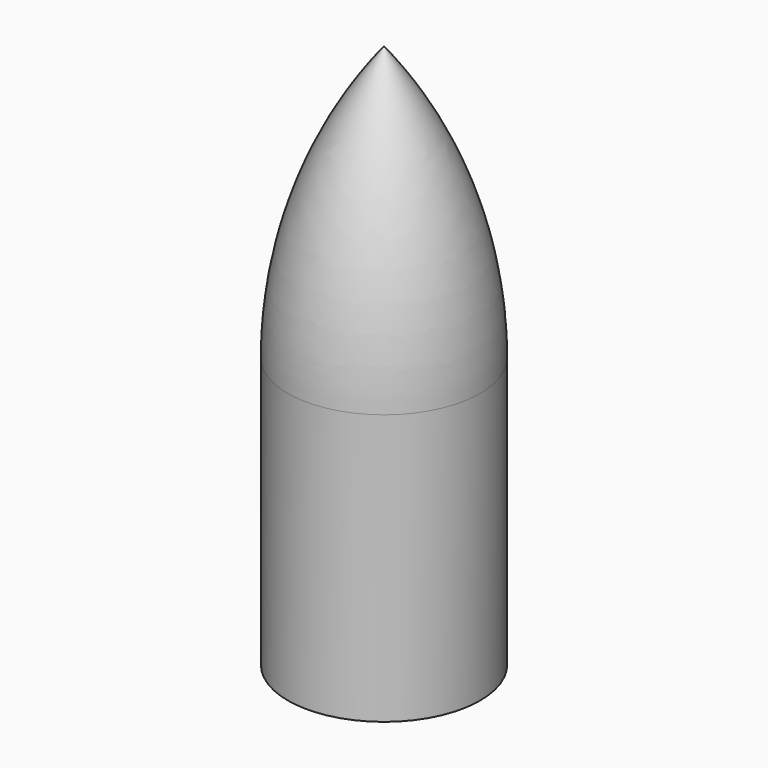
from build123d import *


with BuildPart() as f1:
    # F0 (on Right) → F1 (revolve)
    with BuildSketch(Plane.YZ):
        with BuildLine():
            Line((241.3, 1574.8), (241.3, 0))
            Line((241.3, 0), (697.553336, 0))
            Line((697.553336, 0), (697.553336, 1961.121297))
            ThreePointArc((697.553336, 1961.121297), (518.124241, 3016.488304), (0, 3953.260202))
            Line((0, 3953.260202), (0, 1961.121297))
            Line((0, 1961.121297), (0, 1574.8))
            Line((0, 1574.8), (241.3, 1574.8))
        make_face()
    revolve(axis=Axis((0, 0, 2957.19075), (0, 0, 1)))


solid = f1.part
